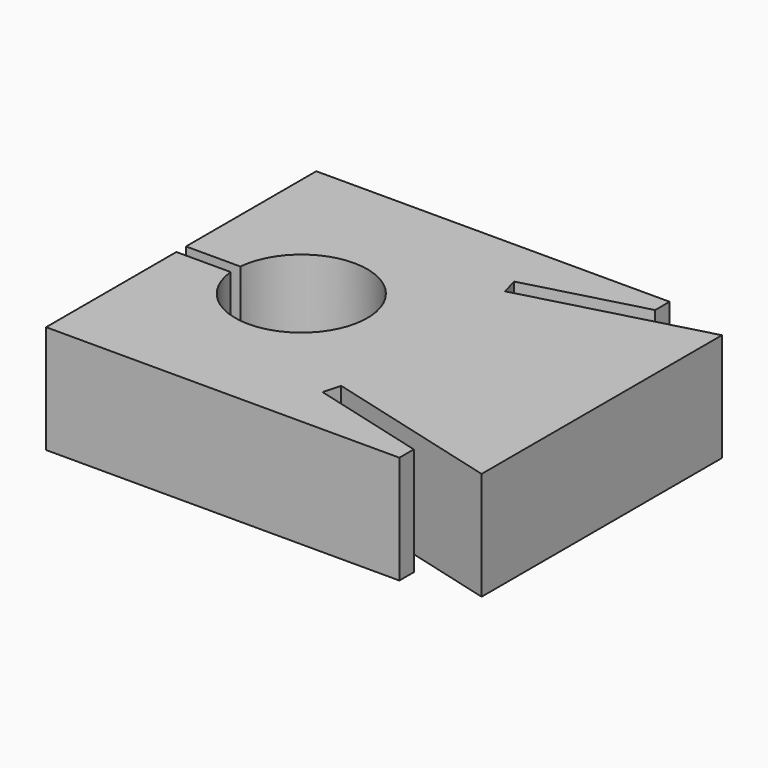
from build123d import *

# Parameters (mm, degrees)
F1_DEPTH = 18


with BuildPart() as f1:
    # F0 (on Top) → F1 (new body)
    with BuildSketch(Plane.XY):
        with BuildLine():
            Line((-70, 28.105829), (-70, 1))
            Line((-70, 1), (-60.954451, 1))
            ThreePointArc((-60.954451, 1), (-39, 0), (-60.954451, -1))
            Line((-60.954451, -1), (-70, -1))
            Line((-70, -1), (-70, -28.105829))
            Line((-70, -28.105829), (-11.196152, -28.105829))
            Line((-11.196152, -28.105829), (-11.196152, -25.105829))
            Line((-11.196152, -25.105829), (-30.514669, -19.929448))
            Line((-30.514669, -19.929448), (-29.738212, -17.03167))
            Line((-29.738212, -17.03167), (0, -25))
            Line((0, -25), (0, 0))
            Line((0, 0), (0, 25))
            Line((0, 25), (-29.738212, 17.03167))
            Line((-29.738212, 17.03167), (-30.514669, 19.929448))
            Line((-30.514669, 19.929448), (-11.196152, 25.105829))
            Line((-11.196152, 25.105829), (-11.196152, 28.105829))
            Line((-11.196152, 28.105829), (-70, 28.105829))
        make_face()
    extrude(amount=F1_DEPTH)


solid = f1.part
